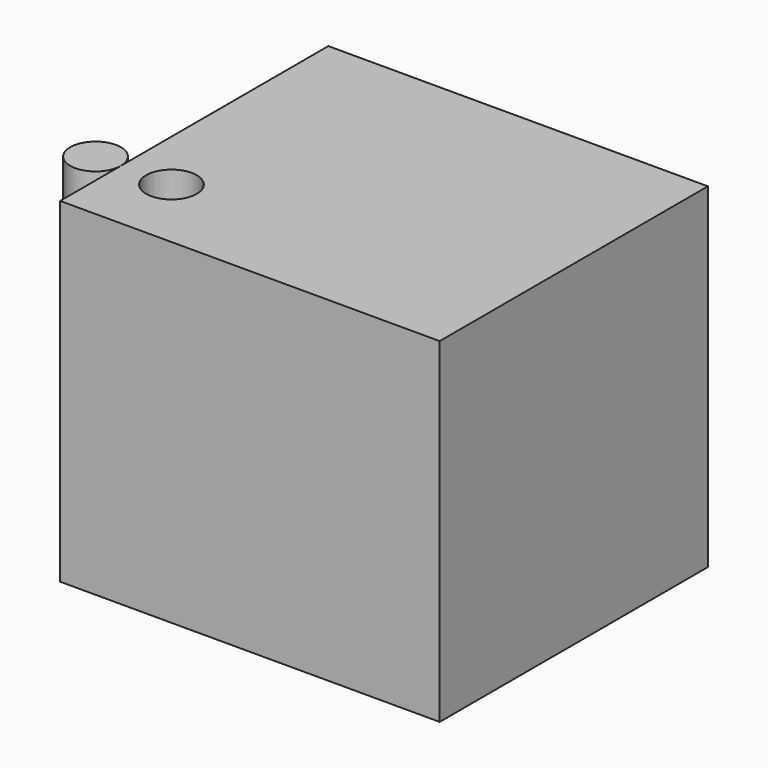
from build123d import *

# Parameters (mm, degrees)
F0_R     = 4
F1_DEPTH = 53
F3_START = 38
F3_DEPTH = 15
F4_START = 38
F4_DEPTH = 15


with BuildPart() as f1:
    # F0 (on Top) → F1 (new body)
    with BuildSketch(Plane.XY):
        Polygon((0, 12), (0, 0), (60, 0), (60, 53), (0, 53), align=None)
        with Locations((8, 12)):
            Circle(F0_R, mode=Mode.SUBTRACT)
        with Locations((8, 12)):
            Circle(F0_R)
    extrude(amount=F1_DEPTH)

    # F0 (on Top) → F3 (cut)
    with BuildSketch(Plane.XY.offset(F3_START)):
        with Locations((8, 12)):
            Circle(F0_R)
        with Locations((-4, 12)):
            Circle(F0_R)
    extrude(amount=F3_DEPTH, mode=Mode.SUBTRACT)


with BuildPart() as f4:
    # F0 (on Top) → F4 (new body)
    with BuildSketch(Plane.XY.offset(F4_START)):
        with Locations((-4, 12)):
            Circle(F0_R)
    extrude(amount=F4_DEPTH)


solid = Compound([f1.part, f4.part])
